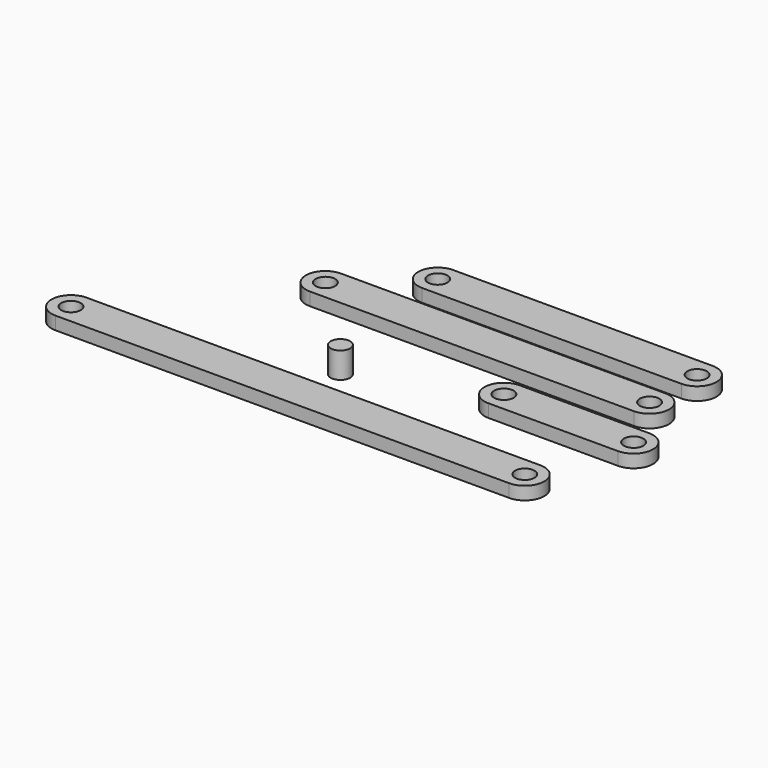
from build123d import *

# Parameters (mm, degrees)
F0_R     = 1.5
F1_DEPTH = 2
F2_R     = 1.5
F3_DEPTH = 2
F4_R     = 1.5
F5_DEPTH = 2
F6_R     = 1.5
F7_DEPTH = 2
F8_R     = 1.5
F9_DEPTH = 4


with BuildPart() as f1:
    # F0 (on Top) → F1 (new body)
    with BuildSketch(Plane.XY):
        with BuildLine():
            Line((20, 3), (0, 3))
            ThreePointArc((0, 3), (-3, 0), (0, -3))
            Line((0, -3), (20, -3))
            ThreePointArc((20, -3), (23, 0), (20, 3))
        make_face()
        Circle(F0_R, mode=Mode.SUBTRACT)
        with Locations((20, 0)):
            Circle(F0_R, mode=Mode.SUBTRACT)
    extrude(amount=F1_DEPTH)


with BuildPart() as f3:
    # F2 (on Top) → F3 (new body)
    with BuildSketch(Plane.XY):
        with BuildLine():
            Line((15, 21.485859), (-25, 21.485859))
            ThreePointArc((-25, 21.485859), (-28, 18.485859), (-25, 15.485859))
            Line((-25, 15.485859), (15, 15.485859))
            ThreePointArc((15, 15.485859), (18, 18.485859), (15, 21.485859))
        make_face()
        with Locations((-25, 18.485859)):
            Circle(F2_R, mode=Mode.SUBTRACT)
        with Locations((15, 18.485859)):
            Circle(F2_R, mode=Mode.SUBTRACT)
    extrude(amount=F3_DEPTH)


with BuildPart() as f5:
    # F4 (on Top) → F5 (new body)
    with BuildSketch(Plane.XY):
        with BuildLine():
            Line((15, -11.721496), (-55, -11.721496))
            ThreePointArc((-55, -11.721496), (-58, -14.721496), (-55, -17.721496))
            Line((-55, -17.721496), (15, -17.721496))
            ThreePointArc((15, -17.721496), (18, -14.721496), (15, -11.721496))
        make_face()
        with Locations((-55, -14.721496)):
            Circle(F4_R, mode=Mode.SUBTRACT)
        with Locations((15, -14.721496)):
            Circle(F4_R, mode=Mode.SUBTRACT)
    extrude(amount=F5_DEPTH)


with BuildPart() as f7:
    # F6 (on Top) → F7 (new body)
    with BuildSketch(Plane.XY):
        with BuildLine():
            Line((15, 12.33063), (-35, 12.33063))
            ThreePointArc((-35, 12.33063), (-38, 9.33063), (-35, 6.33063))
            Line((-35, 6.33063), (15, 6.33063))
            ThreePointArc((15, 6.33063), (18, 9.33063), (15, 12.33063))
        make_face()
        with Locations((-35, 9.33063)):
            Circle(F6_R, mode=Mode.SUBTRACT)
        with Locations((15, 9.33063)):
            Circle(F6_R, mode=Mode.SUBTRACT)
    extrude(amount=F7_DEPTH)


with BuildPart() as f9:
    # F8 (on Top) → F9 (new body)
    with BuildSketch(Plane.XY):
        with Locations((-21.033281, -5.228397)):
            Circle(F8_R)
    extrude(amount=F9_DEPTH)


solid = Compound([f1.part, f3.part, f5.part, f7.part, f9.part])
